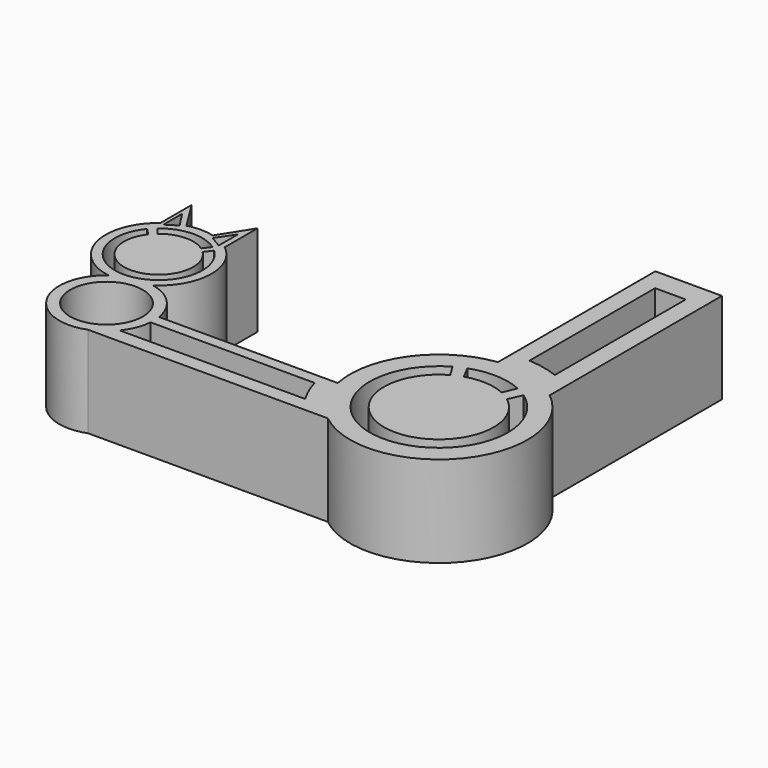
from build123d import *

# Parameters (mm, degrees)
F0_R     = 10.104738
F1_DEPTH = 25.4


with BuildPart() as f1:
    # F0 (on Top) → F1 (new body)
    with BuildSketch(Plane.XY):
        with BuildLine():
            ThreePointArc((36.215748, 1.502736), (19.263337, -8.635989), (15.140539, -27.953869))
            Line((15.140539, -27.953869), (0, -27.953869))
            Line((0, -27.953869), (0, -31.049898))
            Line((0, -31.049898), (11.078159, -31.049898))
            Line((11.078159, -31.049898), (11.161915, -31.049898))
            ThreePointArc((11.161915, -31.049898), (12.486345, -34.747137), (14.292773, -38.234328))
            Line((14.292773, -38.234328), (14.198601, -38.234328))
            Line((14.198601, -38.234328), (0, -38.234328))
            Line((0, -38.234328), (0, -42.281694))
            Line((0, -42.281694), (23.853084, -42.281694))
            ThreePointArc((23.853084, -42.281694), (58.692125, -38.479339), (54.755788, -3.655182))
            Line((54.755788, -3.655182), (54.755788, 56.323968))
            Line((54.755788, 56.323968), (36.215748, 56.323968))
            Line((36.215748, 56.323968), (36.215748, 1.502736))
        make_face()
        with BuildLine():
            ThreePointArc((50.319548, -7.202714), (38.556725, -42.249256), (29.828903, -6.326432))
            Line((29.828903, -6.326432), (31.886789, -9.716487))
            ThreePointArc((31.886789, -9.716487), (38.322899, -38.266224), (48.634886, -10.876921))
            Line((48.634886, -10.876921), (50.319548, -7.202714))
        make_face(mode=Mode.SUBTRACT)
        with BuildLine():
            Line((34.705213, -8.485508), (32.831621, -4.937194))
            ThreePointArc((32.831621, -4.937194), (40.139306, -3.803961), (47.334618, -5.510994))
            Line((47.334618, -5.510994), (45.750625, -9.145473))
            ThreePointArc((45.750625, -9.145473), (40.289779, -7.780181), (34.705213, -8.485508))
        make_face(mode=Mode.SUBTRACT)
        with BuildLine():
            Line((49.663853, 50.072402), (49.663853, 4.530995))
            ThreePointArc((49.663853, 4.530995), (45.465515, 5.751043), (41.132715, 6.335345))
            Line((41.132715, 6.335345), (41.132715, 50.072402))
            Line((41.132715, 50.072402), (49.663853, 50.072402))
        make_face(mode=Mode.SUBTRACT)
        with BuildLine():
            Line((0, -31.049898), (0, -27.953869))
            Line((0, -27.953869), (-34.656468, -27.953869))
            ThreePointArc((-34.656468, -27.953869), (-38.121079, -20.944111), (-44.953929, -17.142479))
            ThreePointArc((-44.953929, -17.142479), (-38.450523, -5.486514), (-44.018981, 6.643946))
            Line((-44.018981, 6.643946), (-44.018981, 18.070712))
            Line((-44.018981, 18.070712), (-49.515065, 9.375074))
            ThreePointArc((-49.515065, 9.375074), (-53.185694, 9.839214), (-56.856323, 9.375074))
            Line((-56.856323, 9.375074), (-62.085995, 17.700483))
            Line((-62.085995, 17.700483), (-62.085995, 6.850444))
            ThreePointArc((-62.085995, 6.850444), (-67.490664, -8.489032), (-55.495376, -19.471883))
            ThreePointArc((-55.495376, -19.471883), (-59.151883, -36.350704), (-42.931896, -42.281694))
            Line((-42.931896, -42.281694), (0, -42.281694))
            Line((0, -42.281694), (0, -38.234328))
            Line((0, -38.234328), (-37.386212, -38.234328))
            ThreePointArc((-37.386212, -38.234328), (-35.421086, -34.856351), (-34.536004, -31.049898))
            Line((-34.536004, -31.049898), (0, -31.049898))
        make_face()
        with Locations((-47.638755, -30.009355)):
            Circle(F0_R, mode=Mode.SUBTRACT)
        with BuildLine():
            ThreePointArc((-44.833815, 3.977288), (-52.410291, -17.076523), (-62.597681, 2.8454))
            Line((-62.597681, 2.8454), (-60.802351, 0.991043))
            ThreePointArc((-60.802351, 0.991043), (-52.559167, -14.52044), (-46.399061, 1.929766))
            Line((-46.399061, 1.929766), (-44.833815, 3.977288))
        make_face(mode=Mode.SUBTRACT)
        with BuildLine():
            Line((-59.396034, 2.457176), (-61.042475, 4.417974))
            ThreePointArc((-61.042475, 4.417974), (-53.702716, 7.275567), (-46.147241, 5.050103))
            Line((-46.147241, 5.050103), (-47.700324, 3.011949))
            ThreePointArc((-47.700324, 3.011949), (-53.642135, 4.715346), (-59.396034, 2.457176))
        make_face(mode=Mode.SUBTRACT)
        Polygon((-61.090183, 6.61603), (-61.090183, 13.13639), (-58.084256, 8.504227), align=None, mode=Mode.SUBTRACT)
        Polygon((-48.773948, 8.386992), (-45.554016, 13.13639), (-45.554016, 6.455034), align=None, mode=Mode.SUBTRACT)
    extrude(amount=F1_DEPTH)


solid = f1.part
